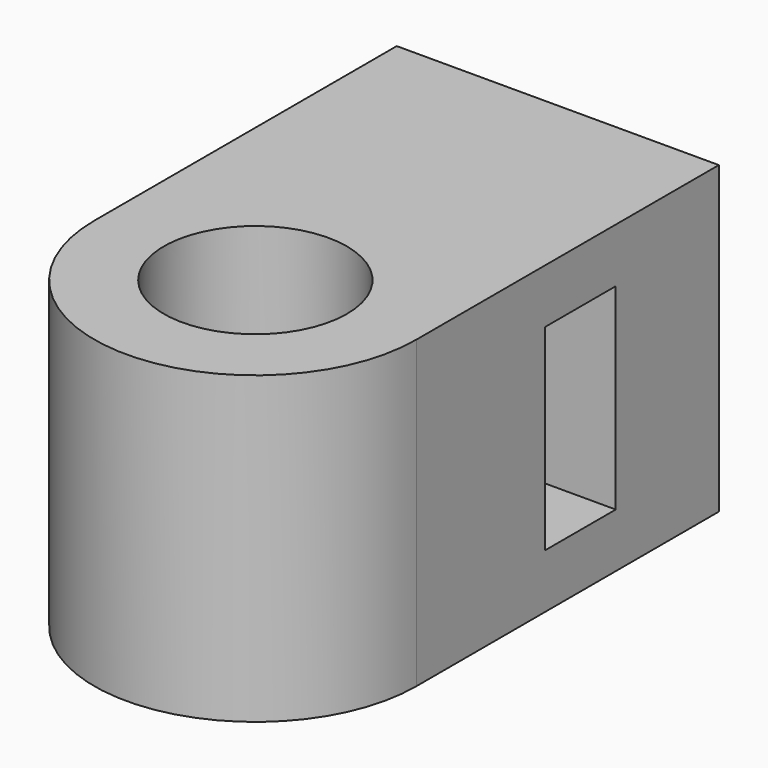
from build123d import *

# Parameters (mm, degrees)
F0_R     = 2.7
F1_DEPTH = 9
F3_DEPTH = 2.6
F4_W     = 9.5
F4_H     = 9
F5_DEPTH = 3.8
F6_R     = 1.6
F7_DEPTH = 9


with BuildPart() as f1:
    # F0 (on Top) → F1 (new body)
    with BuildSketch(Plane.XY):
        with BuildLine():
            ThreePointArc((0, 4.75), (3.358757, 3.358757), (4.75, 0))
            Line((4.75, 0), (4.75, 4.75))
            Line((4.75, 4.75), (0, 4.75))
        make_face()
        with BuildLine():
            ThreePointArc((-4.75, 0), (-3.358757, 3.358757), (0, 4.75))
            Line((0, 4.75), (-4.75, 4.75))
            Line((-4.75, 4.75), (-4.75, 0))
        make_face()
        with BuildLine():
            ThreePointArc((-4.75, 0), (0, -4.75), (4.75, 0))
            ThreePointArc((4.75, 0), (3.358757, 3.358757), (0, 4.75))
            ThreePointArc((0, 4.75), (-3.358757, 3.358757), (-4.75, 0))
        make_face()
        Circle(F0_R, mode=Mode.SUBTRACT)
    extrude(amount=F1_DEPTH)

    # F2 (on face) → F3 (join)
    with BuildSketch(Plane(origin=(0, 4.75, 0), x_dir=(-1, 0, 0), z_dir=(0, 1, 0))):
        Polygon((-4.75, 7.4), (-1.674316, 7.4), (1.674316, 7.4), (3.348632, 4.5), (1.674316, 1.6), (-1.674316, 1.6), (-4.75, 1.6), (-4.75, 0), (4.75, 0), (4.75, 9), (-4.75, 9), align=None)
    extrude(amount=F3_DEPTH)

    # F4 (on face) → F5 (join)
    with BuildSketch(Plane(origin=(0, 7.35, 0), x_dir=(-1, 0, 0), z_dir=(0, 1, 0))):
        with Locations((0, 4.5)):
            Rectangle(F4_W, F4_H)
    extrude(amount=F5_DEPTH)

    # F6 (on face) → F7 (cut)
    with BuildSketch(Plane(origin=(0, 11.15, 0), x_dir=(-1, 0, 0), z_dir=(0, 1, 0))):
        with Locations((0, 4.5)):
            Circle(F6_R)
    extrude(amount=-F7_DEPTH, mode=Mode.SUBTRACT)


solid = f1.part
